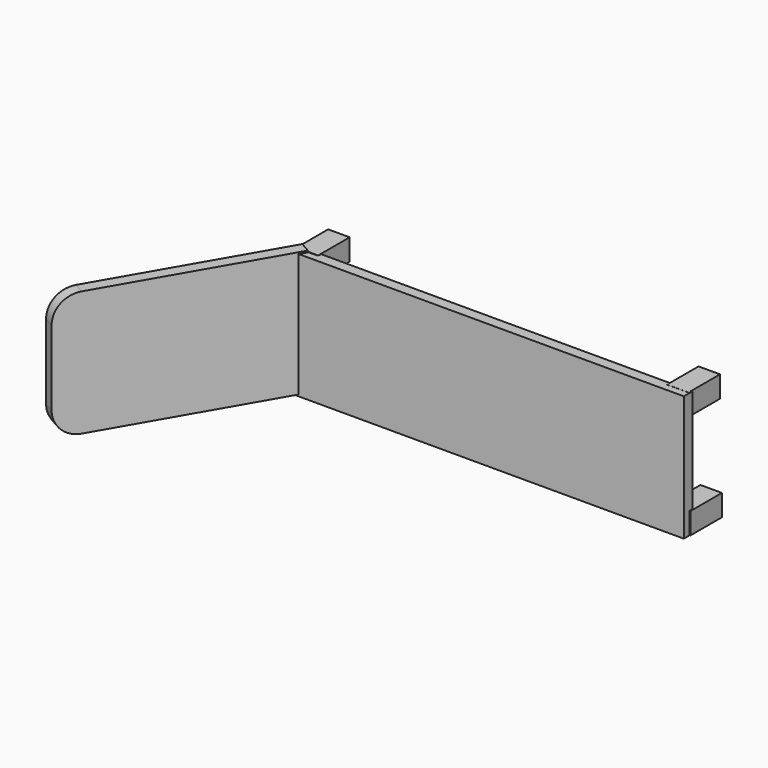
from build123d import *

# Parameters (mm, degrees)
F0_W          = 110
F0_H          = 35
F1_DEPTH      = 3
F2_W          = 6
F2_H          = 6
F3_DEPTH      = 10
F3_DEPTH_BACK = 1
F5_START      = -46.5
F4_W          = 60
F4_H          = 34.980065655
F5_DEPTH      = 3.3
F6_R          = 7
F7_ANGLE      = 30


with BuildPart() as f1:
    # F0 (on Front) → F1 (new body)
    with BuildSketch(Plane.XZ):
        with Locations((4.9685689807, 10.1920374855)):
            Rectangle(F0_W, F0_H)
    extrude(amount=F1_DEPTH)

    # F2 (on Front) → F3 (join, two sides)
    with BuildSketch(Plane.XZ) as f3_sk:
        with Locations((-47.2137728035, -4.1408343501)):
            Rectangle(F2_W, F2_H)
        with Locations((-46.749394387, 24.7768666595)):
            Rectangle(F2_W, F2_H)
        with Locations((57.2089708745, -4.2602112647)):
            Rectangle(F2_W, F2_H)
        with Locations((56.6762120128, 24.7176033575)):
            Rectangle(F2_W, F2_H)
    extrude(amount=-F3_DEPTH)
    extrude(f3_sk.sketch, amount=F3_DEPTH_BACK)


with BuildPart() as f5:
    # F4 (on Right) → F5 (new body)
    with BuildSketch(Plane.YZ.offset(F5_START)):
        with Locations((-31.1493662, 10.6575640384)):
            Rectangle(F4_W, F4_H)
    extrude(amount=-F5_DEPTH)

    # F6
    f6_edges = [f5.edges().sort_by_distance(p)[0] for p in [
        (-48.15, -61.149366, -6.832469),
        (-48.15, -61.149366, 28.147597),
    ]]
    fillet(f6_edges, radius=F6_R)


with BuildPart() as f5_1:
    # F7: moved
    add(f5.part.rotate(Axis((-46.5, -1.1493662, 10.6575640384), (0, 0, -1)), F7_ANGLE))


solid = Compound([f1.part, f5_1.part])
